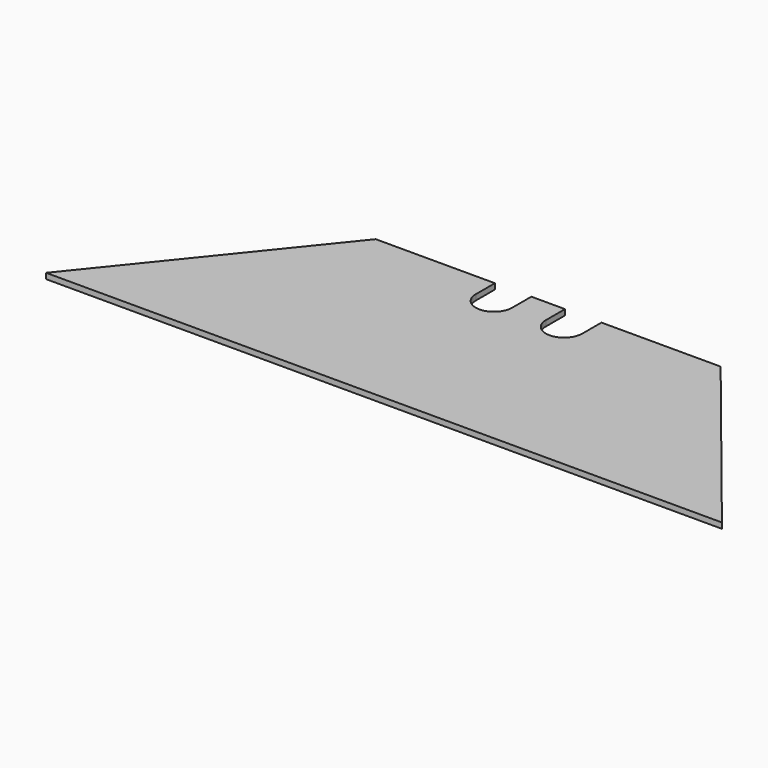
from build123d import *

# Parameters (mm, degrees)
F1_DEPTH = 0.508


with BuildPart() as f1:
    # F0 (on Top) → F1 (new body)
    with BuildSketch(Plane.XY):
        with BuildLine():
            Line((14.986, 18.587178), (0, 0))
            Line((0, 0), (61.214, 0))
            Line((61.214, 0), (46.228, 18.587178))
            Line((46.228, 18.587178), (35.433, 18.587178))
            Line((35.433, 18.587178), (35.433, 16.422391))
            ThreePointArc((35.433, 16.422391), (33.782, 14.771391), (32.131, 16.422391))
            Line((32.131, 16.422391), (32.131, 18.587178))
            Line((32.131, 18.587178), (29.083, 18.587178))
            Line((29.083, 18.587178), (29.083, 16.422391))
            ThreePointArc((29.083, 16.422391), (27.432, 14.771391), (25.781, 16.422391))
            Line((25.781, 16.422391), (25.781, 18.587178))
            Line((25.781, 18.587178), (14.986, 18.587178))
        make_face()
    extrude(amount=F1_DEPTH)


solid = f1.part
